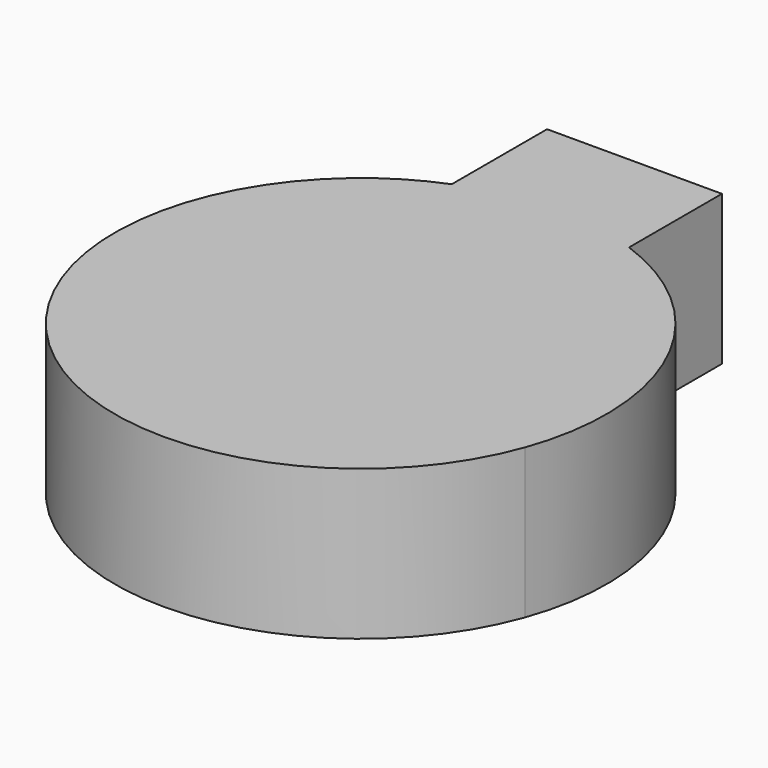
from build123d import *

# Parameters (mm, degrees)
F1_DEPTH = 12.7


with BuildPart() as f1:
    # F0 (on Top) → F1 (new body, symmetric)
    with BuildSketch(Plane.XY):
        with BuildLine():
            Line((-15.522757, 58.932846), (-15.522757, 38.717626))
            ThreePointArc((-15.522757, 38.717626), (-21.503495, 35.743674), (-26.932886, 31.853261))
            Line((-26.932886, 31.853261), (39.226564, -14.187573))
            ThreePointArc((39.226564, -14.187573), (37.759635, 17.726267), (14.143883, 39.242338))
            Line((14.143883, 39.242338), (14.143883, 58.932846))
            Line((14.143883, 58.932846), (-15.522757, 58.932846))
        make_face()
        with BuildLine():
            Line((39.226564, -14.187573), (-26.932886, 31.853261))
            ThreePointArc((-26.932886, 31.853261), (-23.826943, -34.238682), (39.226564, -14.187573))
        make_face()
    extrude(amount=F1_DEPTH, both=True)


solid = f1.part
